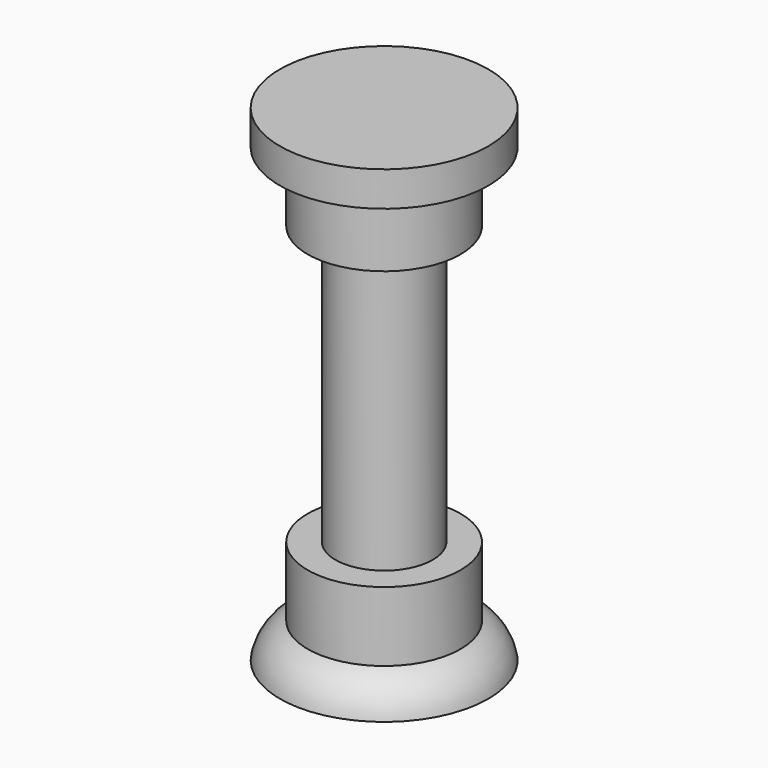
from build123d import *


with BuildPart() as f1:
    # F0 (on Front) → F1 (revolve)
    with BuildSketch(Plane.XZ):
        with BuildLine():
            Line((0, 177.8), (0, 0))
            Line((0, 0), (38.1, 0))
            ThreePointArc((38.1, 0), (34.692301, 7.687841), (27.94, 12.7))
            Line((27.94, 12.7), (27.94, 38.1))
            Line((27.94, 38.1), (17.78, 38.1))
            Line((17.78, 38.1), (17.78, 139.7))
            Line((17.78, 139.7), (27.94, 139.7))
            Line((27.94, 139.7), (27.94, 165.1))
            Line((27.94, 165.1), (38.1, 165.1))
            Line((38.1, 165.1), (38.1, 177.8))
            Line((38.1, 177.8), (0, 177.8))
        make_face()
    revolve(axis=Axis((0, 0, 88.9), (0, 0, -1)))


solid = f1.part
